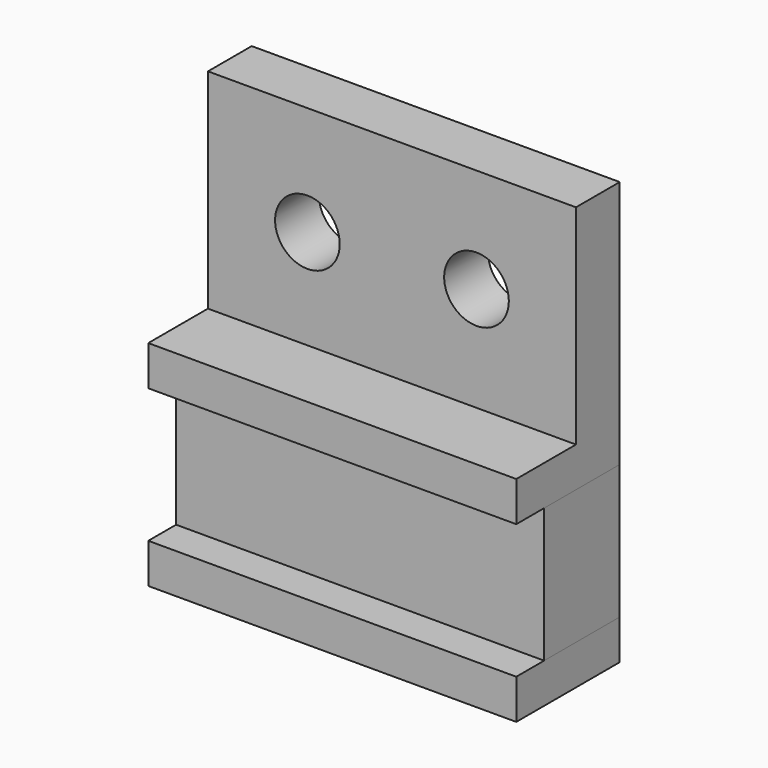
from build123d import *

# Parameters (mm, degrees)
F0_R     = 10.31875
F1_DEPTH = 17.4625
F0_W     = 117.475
F0_H     = 12.7
F2_DEPTH = 41.275
F0_H_2   = 42.8625
F3_DEPTH = 30.1625


with BuildPart() as f1:
    # F0 (on Front) → F1 (new body)
    with BuildSketch(Plane.XZ):
        Polygon((58.7375, 12.7), (58.7375, 79.375), (-4.7625, 79.375), (-58.7375, 79.375), (-58.7375, 12.7), align=None)
        with Locations((-26.9875, 44.497709)):
            Circle(F0_R, mode=Mode.SUBTRACT)
        with Locations((26.9875, 46.0375)):
            Circle(F0_R, mode=Mode.SUBTRACT)
    extrude(amount=F1_DEPTH)

    # F0 (on Front) → F2 (join)
    with BuildSketch(Plane.XZ):
        with Locations((0, 6.35)):
            Rectangle(F0_W, F0_H)
        with Locations((0, -49.2125)):
            Rectangle(F0_W, F0_H)
    extrude(amount=F2_DEPTH)


with BuildPart() as f3:
    # F0 (on Front) → F3 (new body)
    with BuildSketch(Plane.XZ):
        with Locations((0, -21.43125)):
            Rectangle(F0_W, F0_H_2)
    extrude(amount=F3_DEPTH)


solid = Compound([f1.part, f3.part])
